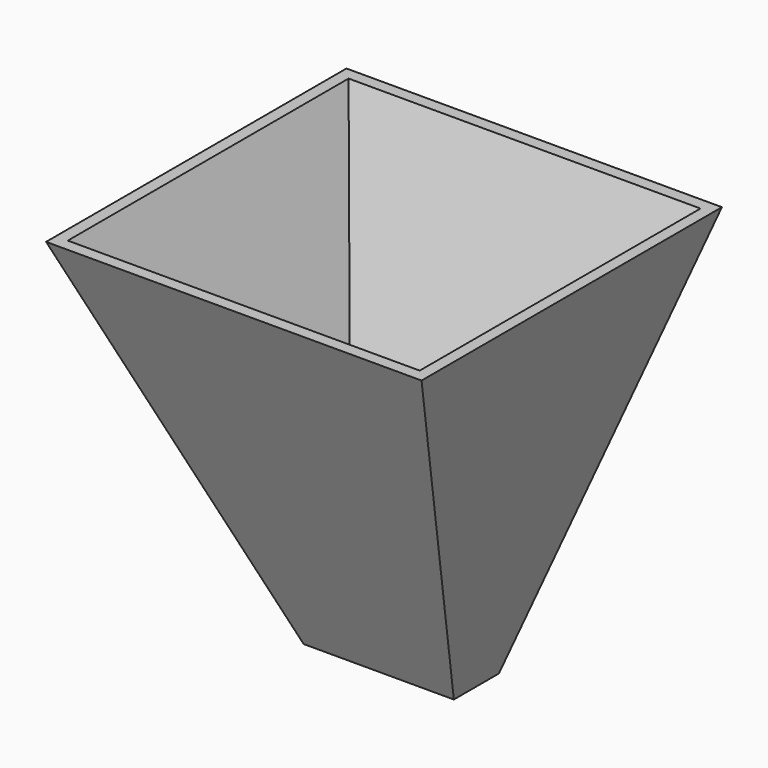
from build123d import *

# Parameters (mm, degrees)
F1_W = 100
F1_H = 100
F2_W = 40
F2_H = 15
F4_T = -3


with BuildPart() as f3:
    # F1 (on offset) → F3 section 0
    with BuildSketch(Plane.XY.offset(100)):
        with Locations((50, -50)):
            Rectangle(F1_W, F1_H)
    # F2 (on Top) → F3 section 1
    with BuildSketch(Plane.XY):
        with Locations((55, -50.5)):
            Rectangle(F2_W, F2_H)
    loft()

    # F4
    f4_openings = [f3.faces().sort_by_distance(p)[0] for p in [
        (50, -50, 100),
        (55, -50.5, 0),
    ]]
    offset(amount=F4_T, openings=f4_openings, kind=Kind.INTERSECTION)


solid = f3.part
